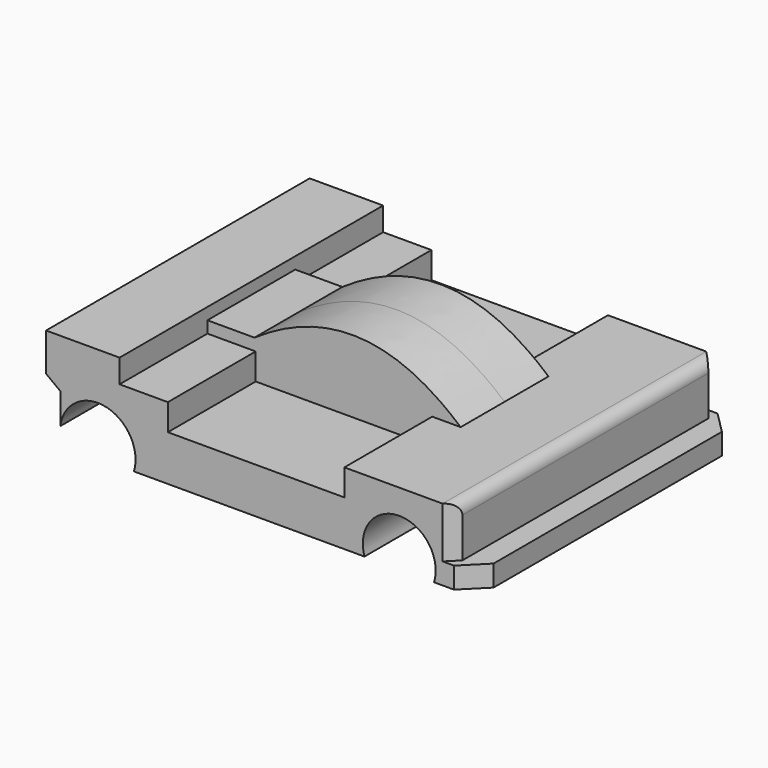
from build123d import *

# Parameters (mm, degrees)
F1_DEPTH = 19.05
F2_DEPTH = 6.35
F3_DEPTH = 6.35
F4_SIZE  = 2.54
F5_SIZE  = 1.27
F6_R     = 1.27


with BuildPart() as f1:
    # F0 (on Front) → F1 (new body, symmetric)
    with BuildSketch(Plane.XZ):
        with BuildLine():
            Line((-24.059453, 8.571546), (-32.558522, 8.571546))
            Line((-32.558522, 8.571546), (-32.558522, 4.165861))
            Line((-32.558522, 4.165861), (-30.917545, 2.935127))
            Line((-30.917545, 2.935127), (-30.917545, 0))
            Line((-30.917545, 0), (-30.917545, -0.634123))
            ThreePointArc((-30.917545, -0.634123), (-26.288961, 3.138165), (-22.212116, -1.224549))
            ThreePointArc((-22.212116, -1.224549), (-22.257831, -1.855194), (-22.394021, -2.472653))
            Line((-22.394021, -2.472653), (4.261856, -2.472653))
            ThreePointArc((4.261856, -2.472653), (7.65477, 2.941104), (12.499143, -1.224549))
            ThreePointArc((12.499143, -1.224549), (12.451597, -1.855724), (12.310032, -2.472653))
            Line((12.310032, -2.472653), (17.1531, -2.472653))
            Line((17.1531, -2.472653), (17.1531, -0.025919))
            Line((17.1531, -0.025919), (14.57005, -0.025919))
            Line((14.57005, -0.025919), (14.57005, 0))
            Line((14.57005, 0), (14.57005, 5.856519))
            Line((14.57005, 5.856519), (10.009351, 5.856519))
            Line((10.009351, 5.856519), (5.226919, 5.856519))
            Line((5.226919, 5.856519), (1.940277, 5.856519))
            Line((1.940277, 5.856519), (1.940277, 2.793992))
            Line((1.940277, 2.793992), (-18.475659, 2.793992))
            Line((-18.475659, 2.793992), (-18.475659, 5.856519))
            Line((-18.475659, 5.856519), (-18.621231, 5.856519))
            Line((-18.621231, 5.856519), (-24.059453, 5.856519))
            Line((-24.059453, 5.856519), (-24.059453, 6.833025))
            Line((-24.059453, 6.833025), (-24.059453, 7.214033))
            Line((-24.059453, 7.214033), (-24.059453, 8.571546))
        make_face()
    extrude(amount=F1_DEPTH, both=True)

    # F0 (on Front) → F2 (join, symmetric)
    with BuildSketch(Plane.XZ):
        with BuildLine():
            add(Edge.make_bspline(
                [(-18.621231, 7.214033), (-9.229071, 13.654015), (-1.348382, 11.55533), (5.226919, 5.856519)],
                knots=[0, 0, 0, 0, 23.886756, 23.886756, 23.886756, 23.886756], degree=3))
            Line((-18.621231, 7.214033), (-18.621231, 5.856519))
            Line((-18.621231, 5.856519), (-18.475659, 5.856519))
            Line((-18.475659, 5.856519), (-18.475659, 2.793992))
            Line((-18.475659, 2.793992), (1.940277, 2.793992))
            Line((1.940277, 2.793992), (1.940277, 5.856519))
            Line((1.940277, 5.856519), (5.226919, 5.856519))
        make_face()
    extrude(amount=F2_DEPTH, both=True)

    # F0 (on Front) → F3 (join, symmetric)
    with BuildSketch(Plane.XZ):
        Polygon((-18.621231, 7.214033), (-24.059453, 7.214033), (-24.059453, 6.833025), (-24.059453, 5.856519), (-18.621231, 5.856519), align=None)
    extrude(amount=F3_DEPTH, both=True)

    # F4
    f4_edges = [f1.edges().sort_by_distance(p)[0] for p in [
        (17.1531, -19.05, -1.249286),
        (17.1531, 19.05, -1.249286),
    ]]
    chamfer(f4_edges, length=F4_SIZE)

    # F5
    f5_edges = [f1.edges().sort_by_distance(p)[0] for p in [
        (14.57005, -19.05, 2.9153),
        (14.57005, 19.05, 2.9153),
    ]]
    chamfer(f5_edges, length=F5_SIZE)

    # F6
    f6_edges = [f1.edges().sort_by_distance(p)[0] for p in [
        (14.57005, 0, 5.856519),
    ]]
    fillet(f6_edges, radius=F6_R)


solid = f1.part
